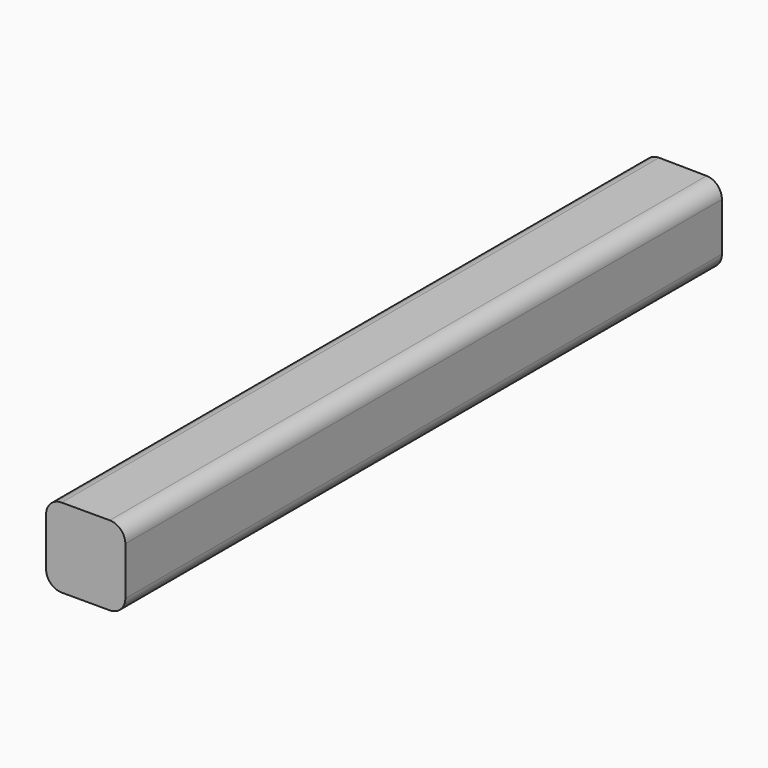
from build123d import *

# Parameters (mm, degrees)
F1_DEPTH = 25.908
F2_R     = 5.08


with BuildPart() as f1:
    # F0 (on Top) → F1 (new body)
    with BuildSketch(Plane.XY):
        Polygon((26.436949, -118.709753), (26.436949, 125.050682), (0.528949, 125.48248), (0.528949, -118.709753), align=None)
    extrude(amount=F1_DEPTH)

    # F2
    f2_edges = [f1.edges().sort_by_distance(p)[0] for p in [
        (0.528949, 3.386364, 25.908),
        (26.436949, 3.170464, 25.908),
        (0.528949, 3.386364, 0),
        (26.436949, 3.170464, 0),
    ]]
    fillet(f2_edges, radius=F2_R)


solid = f1.part
